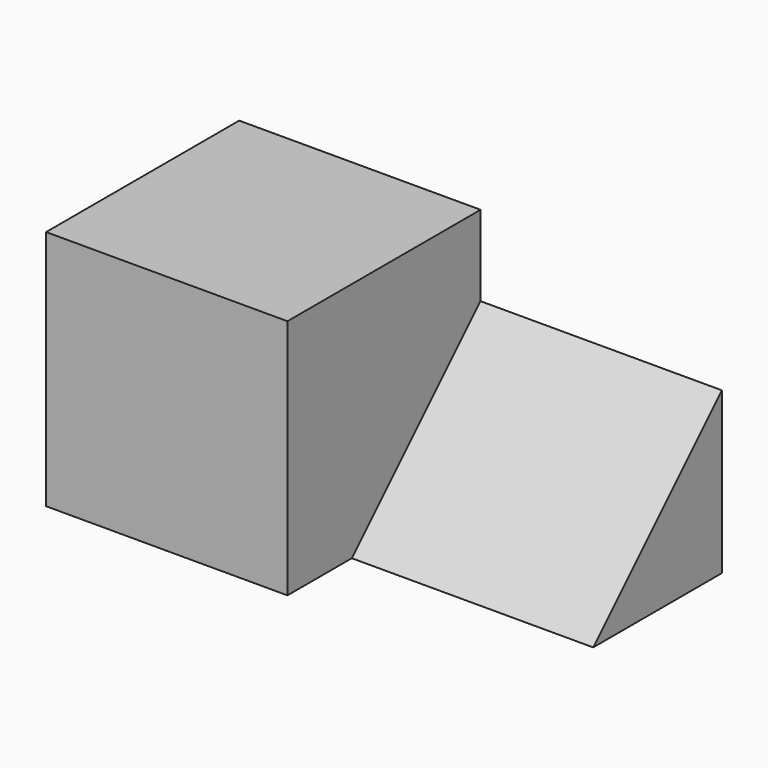
from build123d import *

# Parameters (mm, degrees)
F0_W     = 15
F0_H     = 15
F1_DEPTH = 15
F3_DEPTH = 15


with BuildPart() as f1:
    # F0 (on Top) → F1 (new body)
    with BuildSketch(Plane.XY):
        with Locations((2.898159, 3.825012)):
            Rectangle(F0_W, F0_H)
    extrude(amount=F1_DEPTH)

    # F2 (on face) → F3 (join)
    with BuildSketch(Plane.YZ.offset(10.398159)):
        Polygon((11.325012, 10), (1.325012, 0), (11.325012, 0), align=None)
    extrude(amount=F3_DEPTH)


solid = f1.part
